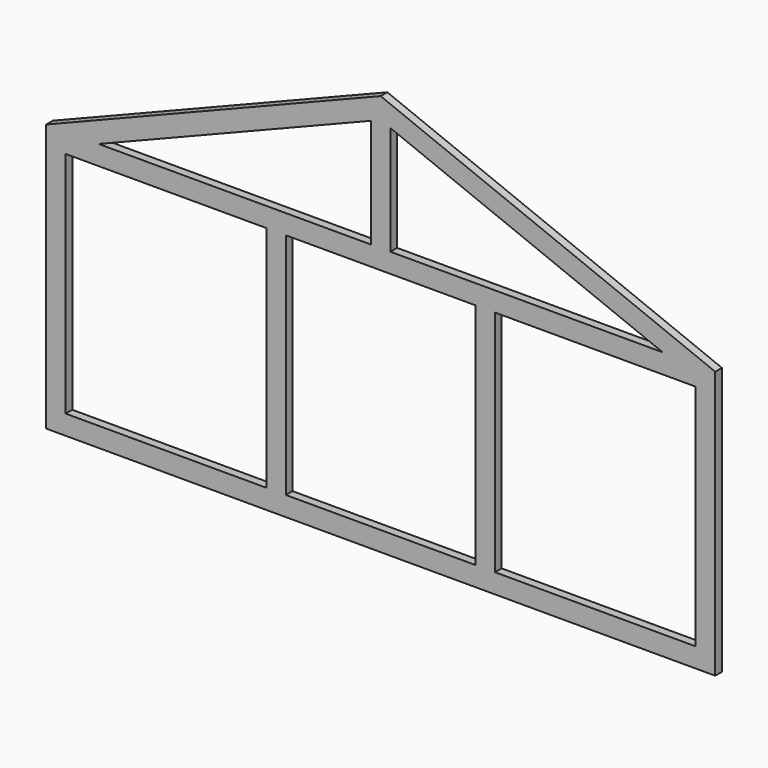
from build123d import *

# Parameters (mm, degrees)
F0_W     = 88.9
F0_H     = 1041.4
F1_DEPTH = 38.1


with BuildPart() as f1:
    # F0 (on Front) → F1 (new body)
    with BuildSketch(Plane.XZ):
        Polygon((-44.45, 800.87177), (-44.45, 896.62), (-762, 609.6), (-728.983369, 527.058422), align=None)
        Polygon((-762, 609.6), (-1524, 304.8), (-1435.1, 304.8), (-1284.629424, 304.8), (-728.983369, 527.058422), align=None)
        Polygon((44.45, 896.62), (0, 914.4), (-44.45, 896.62), (-44.45, 800.87177), (-44.45, 304.8), (0, 304.8), (44.45, 304.8), (44.45, 800.87177), align=None)
        Polygon((1435.1, 304.8), (1524, 304.8), (762, 609.6), (728.983369, 527.058422), (1284.629424, 304.8), align=None)
        Polygon((-1284.629424, 304.8), (-1435.1, 304.8), (-1435.1, 215.9), (-520.7, 215.9), (-431.8, 215.9), (431.8, 215.9), (520.7, 215.9), (1435.1, 215.9), (1435.1, 304.8), (1284.629424, 304.8), (44.45, 304.8), (0, 304.8), (-44.45, 304.8), align=None)
        Polygon((762, 609.6), (44.45, 896.62), (44.45, 800.87177), (728.983369, 527.058422), align=None)
        Polygon((1524, -914.4), (1524, 304.8), (1435.1, 304.8), (1435.1, 215.9), (1435.1, -825.5), (1435.1, -914.4), align=None)
        Polygon((-1435.1, -825.5), (-1435.1, -914.4), (1435.1, -914.4), (1435.1, -825.5), (520.7, -825.5), (431.8, -825.5), (-431.8, -825.5), (-520.7, -825.5), align=None)
        Polygon((-1435.1, 304.8), (-1524, 304.8), (-1524, -914.4), (-1435.1, -914.4), (-1435.1, -825.5), (-1435.1, 215.9), align=None)
        with Locations((-476.25, -304.8)):
            Rectangle(F0_W, F0_H)
        with Locations((476.25, -304.8)):
            Rectangle(F0_W, F0_H)
    extrude(amount=F1_DEPTH)


solid = f1.part
